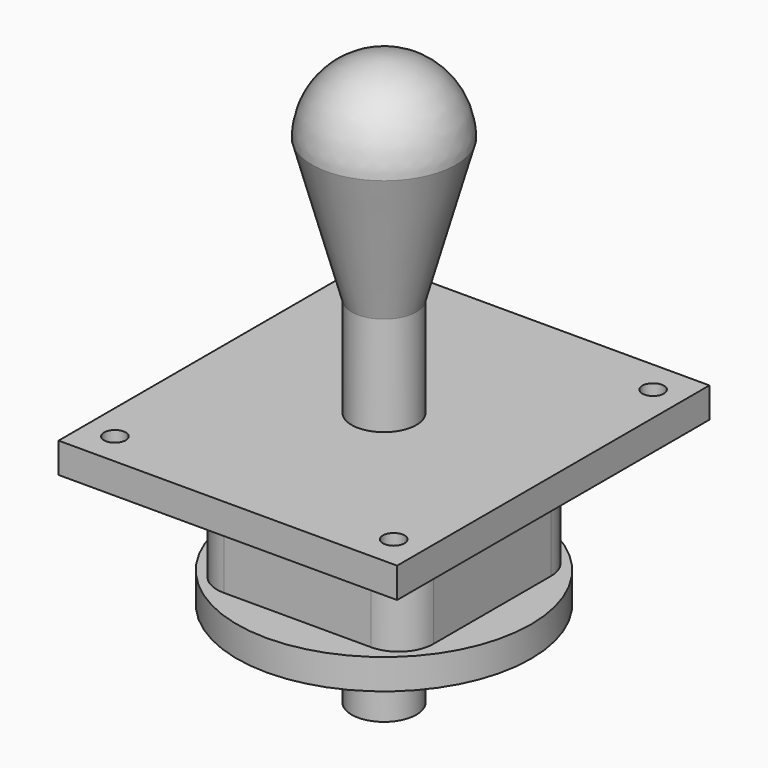
from build123d import *

# Parameters (mm, degrees)
SKETCH005_W             = 90.3
SKETCH005_H             = 78.3
PAD003_DEPTH            = 7
SKETCH006_R             = 2.5
POCKET002_DEPTH         = 7.001
SKETCH008_W             = 50
SKETCH008_H             = 50
PAD004_DEPTH            = 25
FILLET_R                = 8
SKETCH009_R             = 34
PAD005_DEPTH            = 7
SKETCH010_R             = 7.5
PAD006_DEPTH            = 20
BODY002_PLACEMENT_ANGLE = 90


with BuildPart() as part:
    # Sketch005 → Pad003 (new body)
    with BuildSketch(Plane.XY):
        Rectangle(SKETCH005_W, SKETCH005_H)
    extrude(amount=PAD003_DEPTH)

    # Sketch006 (on Face6 of Pad003) → Pocket002 (cut, through all)
    with BuildSketch(Plane.XY.offset(7)):
        with Locations((-37.5, 32.25)):
            Circle(SKETCH006_R)
        with Locations((-37.5, -32.25)):
            Circle(SKETCH006_R)
        with Locations((37.5, -32.25)):
            Circle(SKETCH006_R)
        with Locations((37.5, 32.25)):
            Circle(SKETCH006_R)
    extrude(amount=-POCKET002_DEPTH, mode=Mode.SUBTRACT)

    # Sketch007 → Revolution (revolve)
    with BuildSketch(Plane.XZ):
        with BuildLine():
            Line((7.5, 0), (7.5, 30))
            Line((7.5, 30), (16.65, 62.95))
            ThreePointArc((16.65, 62.95), (11.773328, 74.723328), (0, 79.6))
            Line((0, 0), (0, 79.6))
            Line((7.5, 0), (0, 0))
        make_face()
    revolve(axis=Axis((0, 0, 0), (0, 0, 1)))

    # Sketch008 → Pad004 (join)
    with BuildSketch(Plane.XY):
        Rectangle(SKETCH008_W, SKETCH008_H)
    extrude(amount=-PAD004_DEPTH)

    # Fillet
    fillet_edges = [part.edges().sort_by_distance(p)[0] for p in [
        (25, -25, -12.5),
        (-25, 25, -12.5),
        (-25, -25, -12.5),
        (25, 25, -12.5),
    ]]
    fillet(fillet_edges, radius=FILLET_R)

    # Sketch009 (on Face15 of Pad004) → Pad005 (join)
    with BuildSketch(Plane(origin=(0, 0, -25), x_dir=(1, 0, 0), z_dir=(0, 0, -1))):
        Circle(SKETCH009_R)
    extrude(amount=PAD005_DEPTH)

    # Sketch010 (on Face22 of Pad005) → Pad006 (join)
    with BuildSketch(Plane(origin=(0, 0, -32), x_dir=(1, 0, 0), z_dir=(0, 0, -1))):
        Circle(SKETCH010_R)
    extrude(amount=PAD006_DEPTH)


with BuildPart() as part_1:
    # Body002 placement: moved
    add(part.part.moved(Location((-130, 0, 480))).rotate(Axis((-130, 0, 480), (0, 0, 1)), BODY002_PLACEMENT_ANGLE))


solid = part_1.part
